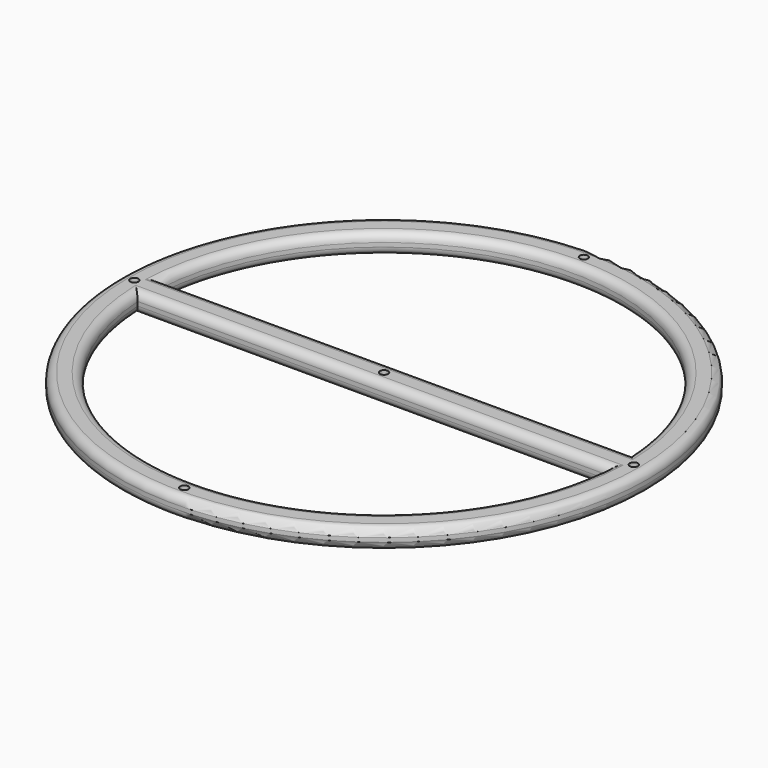
from build123d import *

# Parameters (mm, degrees)
F0_R     = 65
F1_DEPTH = 5
F2_D     = 2
F3_R     = 2


with BuildPart() as f1:
    # F0 (on Top) → F1 (new body)
    with BuildSketch(Plane.XY):
        Circle(F0_R)
        with BuildLine():
            ThreePointArc((57.8943002376, 3.5), (57.973569037, 1.7507978495), (58, 0))
            ThreePointArc((58, 0), (57.973569037, -1.7507978495), (57.8943002376, -3.5))
            ThreePointArc((57.8943002376, -3.5), (0, -58), (-57.8943002376, -3.5))
            ThreePointArc((-57.8943002376, -3.5), (-58, 0), (-57.8943002376, 3.5))
            ThreePointArc((-57.8943002376, 3.5), (0, 58), (57.8943002376, 3.5))
        make_face(mode=Mode.SUBTRACT)
        with BuildLine():
            ThreePointArc((57.8943002376, -3.5), (57.973569037, -1.7507978495), (58, 0))
            ThreePointArc((58, 0), (57.973569037, 1.7507978495), (57.8943002376, 3.5))
            Line((57.8943002376, 3.5), (-57.8943002376, 3.5))
            ThreePointArc((-57.8943002376, 3.5), (-58, 0), (-57.8943002376, -3.5))
            Line((-57.8943002376, -3.5), (57.8943002376, -3.5))
        make_face()
    extrude(amount=F1_DEPTH)

    # F2 (through all)
    with Locations(Plane(origin=(0, 0, 0), x_dir=(1, 0, 0), z_dir=(0, 0, -1))):
        with Locations((-61.5, 0), (0, 0), (61.5, 0), (0, 61.5), (0, -61.5)):
            Hole(F2_D / 2)

    # F3
    f3_edges = [f1.edges().sort_by_distance(p)[0] for p in [
        (0, 58, 5),
        (-65, 0, 5),
        (0, -3.5, 5),
        (0, 3.5, 5),
        (0, -58, 5),
        (-65, 0, 0),
        (0, -58, 0),
        (0, -3.5, 0),
        (0, 58, 0),
        (0, 3.5, 0),
    ]]
    fillet(f3_edges, radius=F3_R)


solid = f1.part
